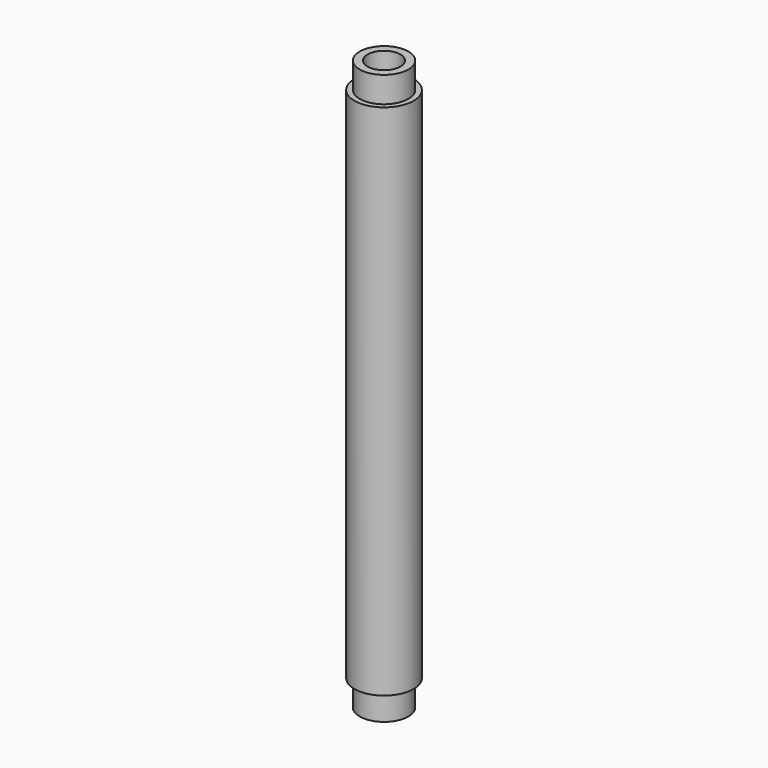
from build123d import *

# Parameters (mm, degrees)
F0_R     = 5.715
F0_R_2   = 3.175
F1_DEPTH = 100
F2_R     = 4.70576
F2_R_2   = 3.175
F3_DEPTH = 5
F4_R     = 4.70576
F4_R_2   = 3.175
F5_DEPTH = 5


with BuildPart() as f1:
    # F0 (on Top) → F1 (new body)
    with BuildSketch(Plane.XY):
        Circle(F0_R)
        Circle(F0_R_2, mode=Mode.SUBTRACT)
    extrude(amount=F1_DEPTH)

    # F2 (on face) → F3 (join)
    with BuildSketch(Plane.XY.offset(100)):
        Circle(F2_R)
        Circle(F2_R_2, mode=Mode.SUBTRACT)
    extrude(amount=F3_DEPTH)

    # F4 (on Top) → F5 (join)
    with BuildSketch(Plane.XY):
        Circle(F4_R)
        Circle(F4_R_2, mode=Mode.SUBTRACT)
    extrude(amount=-F5_DEPTH)


solid = f1.part
